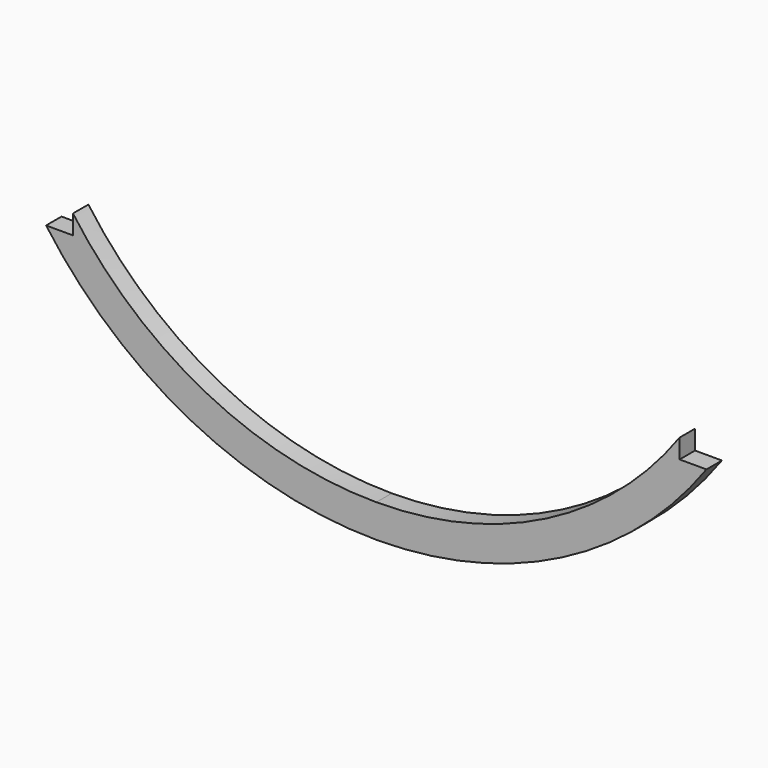
from build123d import *

# Parameters (mm, degrees)
F1_DEPTH = 17.78


with BuildPart() as f1:
    # F0 (on Front) → F1 (new body)
    with BuildSketch(Plane.XZ):
        with BuildLine():
            ThreePointArc((413.79494, 147.127099), (291.400901, 41.730789), (134.39494, 3.812313))
            Line((134.39494, 3.812313), (134.39494, -26.667687))
            ThreePointArc((134.39494, -26.667687), (305.311948, 14.610443), (438.550347, 129.34508))
            Line((438.550347, 129.34508), (413.79494, 129.34508))
            Line((413.79494, 129.34508), (413.79494, 147.127099))
        make_face()
    extrude(amount=F1_DEPTH)

    # F2: F1 across face


with BuildPart() as f1_1:
    add(f1.part)
    add(f1.part.mirror(Plane(origin=(134.39494, -8.89, -11.427687), x_dir=(0, -1, 0), z_dir=(-1, 0, 0))))


solid = f1_1.part
